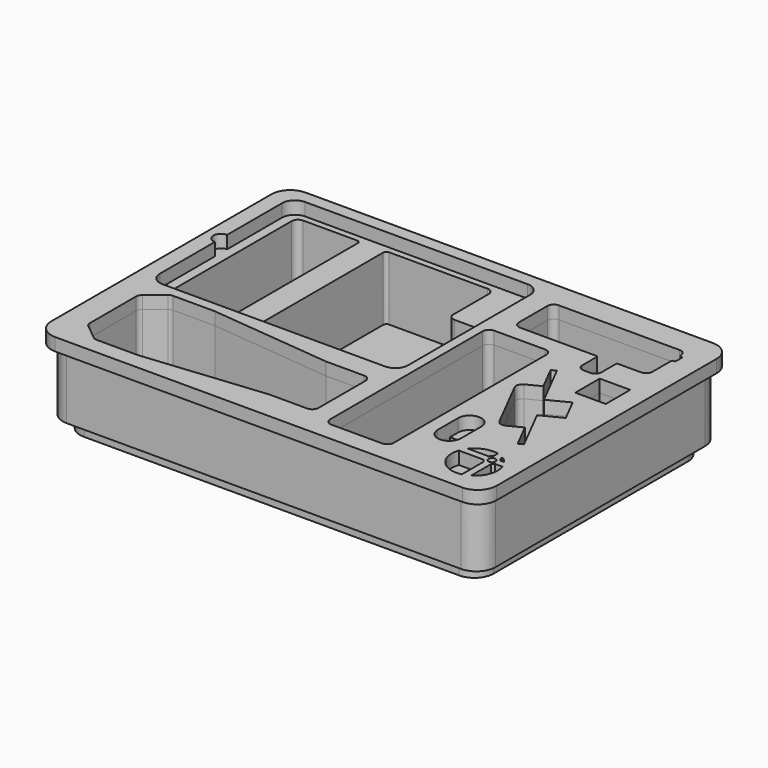
from build123d import *

# Parameters (mm, degrees)
F0_W     = 30.48
F0_H     = 30.48
F1_DEPTH = 63.5
F3_DEPTH = 12.7
F4_R     = 3.625041
F4_W     = 30.48
F4_H     = 30.48
F5_DEPTH = 12.7


with BuildPart() as f1:
    # F0 (on Top) → F1 (new body)
    with BuildSketch(Plane.XY):
        with BuildLine():
            Line((196.85, 149.86), (-196.85, 149.86))
            ThreePointArc((-196.85, 149.86), (-210.320384, 144.280384), (-215.9, 130.81))
            Line((-215.9, 130.81), (-215.9, -130.81))
            ThreePointArc((-215.9, -130.81), (-210.320384, -144.280384), (-196.85, -149.86))
            Line((-196.85, -149.86), (196.85, -149.86))
            ThreePointArc((196.85, -149.86), (210.320384, -144.280384), (215.9, -130.81))
            Line((215.9, -130.81), (215.9, 130.81))
            ThreePointArc((215.9, 130.81), (210.320384, 144.280384), (196.85, 149.86))
        make_face()
        with BuildLine():
            ThreePointArc((-194.486228, -125.731268), (-196.228658, -123.527866), (-196.85, -120.788345))
            Line((-196.85, -120.788345), (-196.85, -63.361655))
            ThreePointArc((-196.85, -63.361655), (-196.228658, -60.622134), (-194.486228, -58.418732))
            Line((-194.486228, -58.418732), (-178.909776, -45.857077))
            ThreePointArc((-178.909776, -45.857077), (-177.037187, -44.812093), (-174.923548, -44.45))
            Line((-174.923548, -44.45), (-133.35, -44.45))
            Line((-133.35, -44.45), (-12.7, -56.515))
            Line((-12.7, -56.515), (25.4, -56.515))
            ThreePointArc((25.4, -56.515), (29.890128, -58.374872), (31.75, -62.865))
            Line((31.75, -62.865), (31.75, -121.285))
            ThreePointArc((31.75, -121.285), (29.890128, -125.775128), (25.4, -127.635))
            Line((25.4, -127.635), (-12.7, -127.635))
            Line((-12.7, -127.635), (-133.35, -139.7))
            Line((-133.35, -139.7), (-174.923548, -139.7))
            ThreePointArc((-174.923548, -139.7), (-177.037187, -139.337907), (-178.909776, -138.292923))
            Line((-178.909776, -138.292923), (-194.486228, -125.731268))
        make_face(mode=Mode.SUBTRACT)
        with BuildLine():
            Line((127.37575, -92.172146), (127.37575, -76.932146))
            Line((127.37575, -76.932146), (150.48975, -76.932146))
            Line((150.48975, -76.932146), (150.48975, -92.172146))
            ThreePointArc((150.48975, -92.172146), (138.93275, -103.729146), (127.37575, -92.172146))
        make_face(mode=Mode.SUBTRACT)
        with BuildLine():
            ThreePointArc((114.3, -130.81), (112.440128, -135.300128), (107.95, -137.16))
            Line((107.95, -137.16), (57.15, -137.16))
            ThreePointArc((57.15, -137.16), (52.659872, -135.300128), (50.8, -130.81))
            Line((50.8, -130.81), (50.8, 59.69))
            ThreePointArc((50.8, 59.69), (52.659872, 64.180128), (57.15, 66.04))
            Line((57.15, 66.04), (107.95, 66.04))
            ThreePointArc((107.95, 66.04), (112.440128, 64.180128), (114.3, 59.69))
            Line((114.3, 59.69), (114.3, -130.81))
        make_face(mode=Mode.SUBTRACT)
        with BuildLine():
            Line((155.867918, -50.834227), (142.606856, -24.807927))
            Line((142.606856, -24.807927), (129.345794, 1.218374))
            ThreePointArc((129.345794, 1.218374), (128.964476, 6.063472), (132.120845, 9.759105))
            Line((132.120845, 9.759105), (145.699785, 16.67792))
            Line((145.699785, 16.67792), (133.01529, 41.572643))
            Line((133.01529, 41.572643), (137.541603, 43.878914))
            Line((137.541603, 43.878914), (160.316037, -0.818428))
            Line((160.316037, -0.818428), (180.684446, 9.559795))
            Line((180.684446, 9.559795), (186.738409, -2.321777))
            Line((186.738409, -2.321777), (192.792372, -14.203349))
            Line((192.792372, -14.203349), (172.423963, -24.581572))
            Line((172.423963, -24.581572), (195.198397, -69.278914))
            Line((195.198397, -69.278914), (190.672084, -71.585186))
            Line((190.672084, -71.585186), (177.987589, -46.690464))
            Line((177.987589, -46.690464), (164.40865, -53.609279))
            ThreePointArc((164.40865, -53.609279), (159.563552, -53.990596), (155.867918, -50.834227))
        make_face(mode=Mode.SUBTRACT)
        with BuildLine():
            ThreePointArc((-190.5, -21.59), (-194.990128, -19.730128), (-196.85, -15.24))
            Line((-196.85, -15.24), (-196.85, 130.81))
            ThreePointArc((-196.85, 130.81), (-194.990128, 135.300128), (-190.5, 137.16))
            Line((-190.5, 137.16), (-136.525, 137.16))
            ThreePointArc((-136.525, 137.16), (-134.279936, 136.230064), (-133.35, 133.985))
            Line((-133.35, 133.985), (-133.35, -18.415))
            ThreePointArc((-133.35, -18.415), (-134.279936, -20.660064), (-136.525, -21.59))
            Line((-136.525, -21.59), (-190.5, -21.59))
        make_face(mode=Mode.SUBTRACT)
        with BuildLine():
            Line((31.75, 26.035), (31.75, -21.59))
            ThreePointArc((31.75, -21.59), (29.890128, -26.080128), (25.4, -27.94))
            Line((25.4, -27.94), (-15.875, -27.94))
            ThreePointArc((-15.875, -27.94), (-18.120064, -27.010064), (-19.05, -24.765))
            ThreePointArc((-19.05, -24.765), (-19.979936, -22.519936), (-22.225, -21.59))
            Line((-22.225, -21.59), (-104.775, -21.59))
            ThreePointArc((-104.775, -21.59), (-107.020064, -20.660064), (-107.95, -18.415))
            Line((-107.95, -18.415), (-107.95, 133.985))
            ThreePointArc((-107.95, 133.985), (-107.020064, 136.230064), (-104.775, 137.16))
            Line((-104.775, 137.16), (-6.35, 137.16))
            ThreePointArc((-6.35, 137.16), (-1.859872, 135.300128), (0, 130.81))
            Line((0, 130.81), (0, 86.36))
            ThreePointArc((0, 86.36), (1.859872, 81.869872), (6.35, 80.01))
            Line((6.35, 80.01), (34.925, 80.01))
            ThreePointArc((34.925, 80.01), (37.170064, 79.080064), (38.1, 76.835))
            Line((38.1, 76.835), (38.1, 32.385))
            ThreePointArc((38.1, 32.385), (37.170064, 30.139936), (34.925, 29.21))
            ThreePointArc((34.925, 29.21), (32.679936, 28.280064), (31.75, 26.035))
        make_face(mode=Mode.SUBTRACT)
        with Locations((187.177552, 38.947299)):
            Rectangle(F0_W, F0_H, mode=Mode.SUBTRACT)
        with BuildLine():
            ThreePointArc((69.85, 82.55), (65.359872, 84.409872), (63.5, 88.9))
            Line((63.5, 88.9), (63.5, 124.46))
            ThreePointArc((63.5, 124.46), (65.359872, 128.950128), (69.85, 130.81))
            Line((69.85, 130.81), (190.5, 130.81))
            ThreePointArc((190.5, 130.81), (194.990128, 128.950128), (196.85, 124.46))
            Line((196.85, 124.46), (196.85, 124.1298))
            ThreePointArc((196.85, 124.1298), (197.226412, 123.239995), (198.119936, 122.8725))
            Line((198.119936, 122.8725), (198.755, 122.8725))
            ThreePointArc((198.755, 122.8725), (199.653026, 122.500526), (200.025, 121.6025))
            Line((200.025, 121.6025), (200.025, 114.6175))
            ThreePointArc((200.025, 114.6175), (199.653026, 113.719474), (198.755, 113.3475))
            Line((198.755, 113.3475), (198.12, 113.3475))
            ThreePointArc((198.12, 113.3475), (197.221974, 112.975526), (196.85, 112.0775))
            Line((196.85, 112.0775), (196.85, 88.9))
            ThreePointArc((196.85, 88.9), (194.990128, 84.409872), (190.5, 82.55))
            Line((190.5, 82.55), (167.64, 82.55))
            ThreePointArc((167.64, 82.55), (166.741974, 82.178026), (166.37, 81.28))
            Line((166.37, 81.28), (166.37, 63.5))
            ThreePointArc((166.37, 63.5), (164.510128, 59.009872), (160.02, 57.15))
            Line((160.02, 57.15), (153.67, 57.15))
            ThreePointArc((153.67, 57.15), (149.179872, 59.009872), (147.32, 63.5))
            Line((147.32, 63.5), (147.32, 81.28))
            ThreePointArc((147.32, 81.28), (146.948026, 82.178026), (146.05, 82.55))
            Line((146.05, 82.55), (69.85, 82.55))
        make_face(mode=Mode.SUBTRACT)
    extrude(amount=F1_DEPTH)


with BuildPart() as f3:
    # F2 (on Top) → F3 (new body)
    with BuildSketch(Plane.XY):
        with BuildLine():
            Line((187.325, 140.335), (-187.325, 140.335))
            ThreePointArc((-187.325, 140.335), (-200.795384, 134.755384), (-206.375, 121.285))
            Line((-206.375, 121.285), (-206.375, -121.285))
            ThreePointArc((-206.375, -121.285), (-200.795384, -134.755384), (-187.325, -140.335))
            Line((-187.325, -140.335), (187.325, -140.335))
            ThreePointArc((187.325, -140.335), (200.795384, -134.755384), (206.375, -121.285))
            Line((206.375, -121.285), (206.375, 121.285))
            ThreePointArc((206.375, 121.285), (200.795384, 134.755384), (187.325, 140.335))
        make_face()
        with BuildLine():
            Line((-182.968114, -65.445176), (-173.554483, -57.853539))
            ThreePointArc((-173.554483, -57.853539), (-172.618189, -57.331047), (-171.561369, -57.15))
            Line((-171.561369, -57.15), (-134.141775, -57.15))
            ThreePointArc((-134.141775, -57.15), (-133.983617, -57.153942), (-133.825851, -57.165757))
            Line((-133.825851, -57.165757), (-13.49099, -69.199243))
            ThreePointArc((-13.49099, -69.199243), (-13.333224, -69.211058), (-13.175065, -69.215))
            Line((-13.175065, -69.215), (15.875, -69.215))
            ThreePointArc((15.875, -69.215), (18.120064, -70.144936), (19.05, -72.39))
            Line((19.05, -72.39), (19.05, -79.375))
            ThreePointArc((19.05, -79.375), (19.979936, -81.620064), (22.225, -82.55))
            Line((22.225, -82.55), (76.2, -82.55))
            ThreePointArc((76.2, -82.55), (85.725, -92.075), (76.2, -101.6))
            Line((76.2, -101.6), (22.225, -101.6))
            ThreePointArc((22.225, -101.6), (19.979936, -102.529936), (19.05, -104.775))
            Line((19.05, -104.775), (19.05, -111.76))
            ThreePointArc((19.05, -111.76), (18.120064, -114.005064), (15.875, -114.935))
            Line((15.875, -114.935), (-13.175065, -114.935))
            ThreePointArc((-13.175065, -114.935), (-13.333224, -114.938942), (-13.49099, -114.950757))
            Line((-13.49099, -114.950757), (-133.825851, -126.984243))
            ThreePointArc((-133.825851, -126.984243), (-133.983617, -126.996058), (-134.141775, -127))
            Line((-134.141775, -127), (-171.561369, -127))
            ThreePointArc((-171.561369, -127), (-172.618189, -126.818953), (-173.554483, -126.296461))
            Line((-173.554483, -126.296461), (-182.968114, -118.704824))
            ThreePointArc((-182.968114, -118.704824), (-183.839329, -117.603123), (-184.15, -116.233362))
            Line((-184.15, -116.233362), (-184.15, -67.916638))
            ThreePointArc((-184.15, -67.916638), (-183.839329, -66.546877), (-182.968114, -65.445176))
        make_face(mode=Mode.SUBTRACT)
        with BuildLine():
            Line((-158.75, 41.91), (-158.75, 54.61))
            Line((-158.75, 54.61), (-158.75, 67.31))
            ThreePointArc((-158.75, 67.31), (-157.820064, 69.555064), (-155.575, 70.485))
            Line((-155.575, 70.485), (-85.725, 70.485))
            ThreePointArc((-85.725, 70.485), (-83.479936, 69.555064), (-82.55, 67.31))
            Line((-82.55, 67.31), (-82.55, 54.61))
            Line((-82.55, 54.61), (-82.55, 41.91))
            ThreePointArc((-82.55, 41.91), (-83.479936, 39.664936), (-85.725, 38.735))
            Line((-85.725, 38.735), (-155.575, 38.735))
            ThreePointArc((-155.575, 38.735), (-157.820064, 39.664936), (-158.75, 41.91))
        make_face(mode=Mode.SUBTRACT)
        with BuildLine():
            ThreePointArc((-8.125321, 54.61), (-6.265449, 59.100128), (-1.775321, 60.96))
            Line((-1.775321, 60.96), (87.124679, 60.96))
            ThreePointArc((87.124679, 60.96), (91.614807, 59.100128), (93.474679, 54.61))
            Line((93.474679, 54.61), (93.474679, 35.56))
            ThreePointArc((93.474679, 35.56), (91.614807, 31.069872), (87.124679, 29.21))
            Line((87.124679, 29.21), (-1.775321, 29.21))
            ThreePointArc((-1.775321, 29.21), (-6.265449, 31.069872), (-8.125321, 35.56))
            Line((-8.125321, 35.56), (-8.125321, 54.61))
        make_face(mode=Mode.SUBTRACT)
    extrude(amount=-F3_DEPTH)


with BuildPart() as f5:
    # F4 (on face) → F5 (new body)
    with BuildSketch(Plane.XY.offset(63.5)):
        with BuildLine():
            Line((203.2, 156.21), (-203.2, 156.21))
            ThreePointArc((-203.2, 156.21), (-216.670384, 150.630384), (-222.25, 137.16))
            Line((-222.25, 137.16), (-222.25, -137.16))
            ThreePointArc((-222.25, -137.16), (-216.670384, -150.630384), (-203.2, -156.21))
            Line((-203.2, -156.21), (203.2, -156.21))
            ThreePointArc((203.2, -156.21), (216.670384, -150.630384), (222.25, -137.16))
            Line((222.25, -137.16), (222.25, 137.16))
            ThreePointArc((222.25, 137.16), (216.670384, 150.630384), (203.2, 156.21))
        make_face()
        with BuildLine():
            ThreePointArc((-194.486228, -125.731268), (-196.228658, -123.527866), (-196.85, -120.788345))
            Line((-196.85, -120.788345), (-196.85, -63.361655))
            ThreePointArc((-196.85, -63.361655), (-196.228658, -60.622134), (-194.486228, -58.418732))
            Line((-194.486228, -58.418732), (-178.909776, -45.857077))
            ThreePointArc((-178.909776, -45.857077), (-177.037187, -44.812093), (-174.923548, -44.45))
            Line((-174.923548, -44.45), (-133.35, -44.45))
            Line((-133.35, -44.45), (-12.7, -56.515))
            Line((-12.7, -56.515), (25.4, -56.515))
            ThreePointArc((25.4, -56.515), (29.890128, -58.374872), (31.75, -62.865))
            Line((31.75, -62.865), (31.75, -121.285))
            ThreePointArc((31.75, -121.285), (29.890128, -125.775128), (25.4, -127.635))
            Line((25.4, -127.635), (-12.7, -127.635))
            Line((-12.7, -127.635), (-133.35, -139.7))
            Line((-133.35, -139.7), (-174.923548, -139.7))
            ThreePointArc((-174.923548, -139.7), (-177.037187, -139.337907), (-178.909776, -138.292923))
            Line((-178.909776, -138.292923), (-194.486228, -125.731268))
        make_face(mode=Mode.SUBTRACT)
        with BuildLine():
            ThreePointArc((189.010527, -139.074478), (166.771496, -132.040867), (162.092728, -109.190149))
            Line((162.092728, -109.190149), (186.517018, -109.190149))
            ThreePointArc((186.517018, -109.190149), (187.601941, -110.588923), (189.010527, -111.661075))
            Line((189.010527, -111.661075), (189.010527, -139.074478))
        make_face(mode=Mode.SUBTRACT)
        with BuildLine():
            ThreePointArc((205.659202, -109.190149), (205.54334, -124.409254), (195.956489, -136.229866))
            Line((195.956489, -136.229866), (195.956489, -111.560681))
            ThreePointArc((195.956489, -111.560681), (197.26506, -110.519093), (198.280526, -109.190149))
            Line((198.280526, -109.190149), (205.659202, -109.190149))
        make_face(mode=Mode.SUBTRACT)
        with BuildLine():
            Line((127.37575, -92.172146), (127.37575, -66.772146))
            ThreePointArc((127.37575, -66.772146), (138.93275, -55.215146), (150.48975, -66.772146))
            Line((150.48975, -66.772146), (150.48975, -92.172146))
            ThreePointArc((150.48975, -92.172146), (138.93275, -103.729146), (127.37575, -92.172146))
        make_face(mode=Mode.SUBTRACT)
        with BuildLine():
            Line((186.525742, -102.291487), (165.870177, -102.291487))
            ThreePointArc((165.870177, -102.291487), (176.272751, -94.906077), (189.010527, -94.194139))
            Line((189.010527, -94.194139), (189.010527, -99.835427))
            ThreePointArc((189.010527, -99.835427), (187.608067, -100.901516), (186.525742, -102.291487))
        make_face(mode=Mode.SUBTRACT)
        with Locations((192.416144, -105.783119)):
            Circle(F4_R, mode=Mode.SUBTRACT)
        with BuildLine():
            ThreePointArc((195.956489, -97.038751), (199.146667, -99.408439), (201.881753, -102.291487))
            Line((201.881753, -102.291487), (198.271801, -102.291487))
            ThreePointArc((198.271801, -102.291487), (197.259022, -100.971259), (195.956489, -99.935821))
            Line((195.956489, -99.935821), (195.956489, -97.038751))
        make_face(mode=Mode.SUBTRACT)
        with BuildLine():
            ThreePointArc((114.3, -130.81), (112.440128, -135.300128), (107.95, -137.16))
            Line((107.95, -137.16), (57.15, -137.16))
            ThreePointArc((57.15, -137.16), (52.659872, -135.300128), (50.8, -130.81))
            Line((50.8, -130.81), (50.8, 59.69))
            ThreePointArc((50.8, 59.69), (52.659872, 64.180128), (57.15, 66.04))
            Line((57.15, 66.04), (107.95, 66.04))
            ThreePointArc((107.95, 66.04), (112.440128, 64.180128), (114.3, 59.69))
            Line((114.3, 59.69), (114.3, -130.81))
        make_face(mode=Mode.SUBTRACT)
        with BuildLine():
            Line((155.867918, -50.834227), (142.606856, -24.807927))
            Line((142.606856, -24.807927), (129.345794, 1.218374))
            ThreePointArc((129.345794, 1.218374), (128.964476, 6.063472), (132.120845, 9.759105))
            Line((132.120845, 9.759105), (145.699785, 16.67792))
            Line((145.699785, 16.67792), (133.01529, 41.572643))
            Line((133.01529, 41.572643), (137.541603, 43.878914))
            Line((137.541603, 43.878914), (160.316037, -0.818428))
            Line((160.316037, -0.818428), (180.684446, 9.559795))
            Line((180.684446, 9.559795), (186.738409, -2.321777))
            Line((186.738409, -2.321777), (192.792372, -14.203349))
            Line((192.792372, -14.203349), (172.423963, -24.581572))
            Line((172.423963, -24.581572), (195.198397, -69.278914))
            Line((195.198397, -69.278914), (190.672084, -71.585186))
            Line((190.672084, -71.585186), (177.987589, -46.690464))
            Line((177.987589, -46.690464), (164.40865, -53.609279))
            ThreePointArc((164.40865, -53.609279), (159.563552, -53.990596), (155.867918, -50.834227))
        make_face(mode=Mode.SUBTRACT)
        with BuildLine():
            ThreePointArc((-206.375, 130.81), (-202.655256, 139.790256), (-193.675, 143.51))
            Line((-193.675, 143.51), (28.575, 143.51))
            ThreePointArc((28.575, 143.51), (37.555256, 139.790256), (41.275, 130.81))
            Line((41.275, 130.81), (41.275, -21.59))
            ThreePointArc((41.275, -21.59), (37.555256, -30.570256), (28.575, -34.29))
            Line((28.575, -34.29), (12.7, -34.29))
            Line((12.7, -34.29), (0, -34.29))
            Line((0, -34.29), (-193.675, -34.29))
            ThreePointArc((-193.675, -34.29), (-202.655256, -30.570256), (-206.375, -21.59))
            Line((-206.375, -21.59), (-206.375, 46.99))
            ThreePointArc((-206.375, 46.99), (-213.995, 54.61), (-206.375, 62.23))
            Line((-206.375, 62.23), (-206.375, 99.06))
            Line((-206.375, 99.06), (-206.375, 111.76))
            Line((-206.375, 111.76), (-206.375, 130.81))
        make_face(mode=Mode.SUBTRACT)
        with Locations((187.177552, 38.947299)):
            Rectangle(F4_W, F4_H, mode=Mode.SUBTRACT)
        with BuildLine():
            ThreePointArc((69.85, 82.55), (65.359872, 84.409872), (63.5, 88.9))
            Line((63.5, 88.9), (63.5, 124.46))
            ThreePointArc((63.5, 124.46), (65.359872, 128.950128), (69.85, 130.81))
            Line((69.85, 130.81), (190.5, 130.81))
            ThreePointArc((190.5, 130.81), (194.990128, 128.950128), (196.85, 124.46))
            Line((196.85, 124.46), (196.85, 124.1298))
            ThreePointArc((196.85, 124.1298), (197.226412, 123.239995), (198.119936, 122.8725))
            Line((198.119936, 122.8725), (198.755, 122.8725))
            ThreePointArc((198.755, 122.8725), (199.653026, 122.500526), (200.025, 121.6025))
            Line((200.025, 121.6025), (200.025, 114.6175))
            ThreePointArc((200.025, 114.6175), (199.653026, 113.719474), (198.755, 113.3475))
            Line((198.755, 113.3475), (198.12, 113.3475))
            ThreePointArc((198.12, 113.3475), (197.221974, 112.975526), (196.85, 112.0775))
            Line((196.85, 112.0775), (196.85, 88.9))
            ThreePointArc((196.85, 88.9), (194.990128, 84.409872), (190.5, 82.55))
            Line((190.5, 82.55), (167.64, 82.55))
            ThreePointArc((167.64, 82.55), (166.741974, 82.178026), (166.37, 81.28))
            Line((166.37, 81.28), (166.37, 63.5))
            ThreePointArc((166.37, 63.5), (164.510128, 59.009872), (160.02, 57.15))
            Line((160.02, 57.15), (153.67, 57.15))
            ThreePointArc((153.67, 57.15), (149.179872, 59.009872), (147.32, 63.5))
            Line((147.32, 63.5), (147.32, 81.28))
            ThreePointArc((147.32, 81.28), (146.948026, 82.178026), (146.05, 82.55))
            Line((146.05, 82.55), (69.85, 82.55))
        make_face(mode=Mode.SUBTRACT)
    extrude(amount=F5_DEPTH)


solid = Compound([f1.part, f3.part, f5.part])
